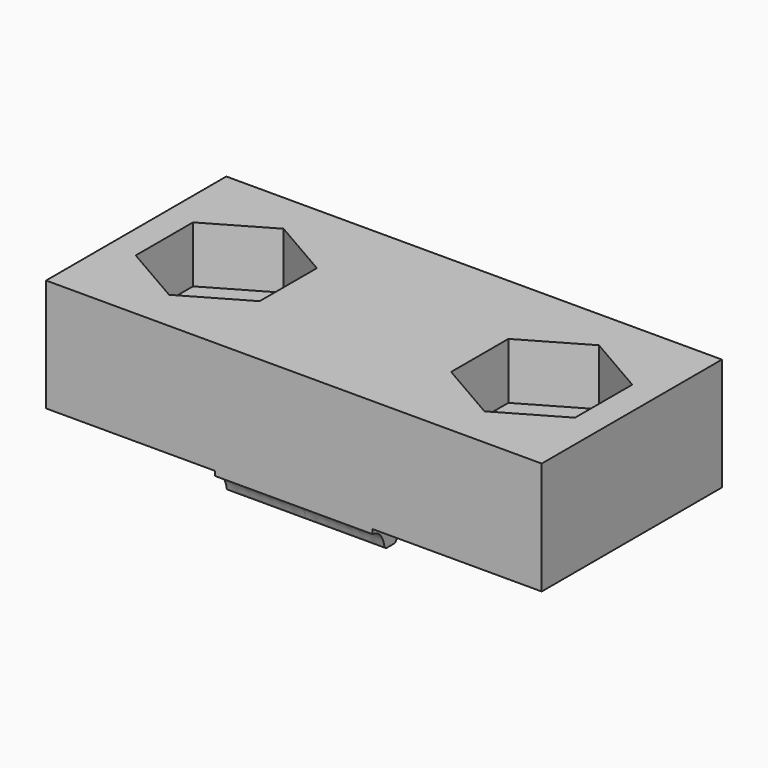
from build123d import *

# Parameters (mm, degrees)
SKETCH_W        = 22
SKETCH_H        = 10
PAD_DEPTH       = 5
PAD001_DEPTH    = 3.5
SKETCH009_R     = 1.6
POCKET_DEPTH    = 5.001
POCKET001_DEPTH = 2.5


with BuildPart() as part:
    # Sketch → Pad (new body)
    with BuildSketch(Plane.XY):
        Rectangle(SKETCH_W, SKETCH_H)
    extrude(amount=PAD_DEPTH)

    # Sketch008 (on DatumPlane) → Pad001 (join, symmetric)
    with BuildSketch(Plane(origin=(0, -5, -0.2), x_dir=(0, 1, 0), z_dir=(1, 0, 0))):
        with BuildLine():
            add(Edge.make_bspline(
                [(0, 0), (0.35359, -0.026741), (0.649381, -0.565336), (0.617792, -0.761919), (0.721021, -0.848783), (0.871627, -0.848783), (1.086099, -0.848783), (1.231939, -0.850694), (1.339653, -0.771577), (1.309148, -0.564354), (1.603926, -0.032231), (2, 0)],
                knots=[0, 0, 0, 0, 0.142857, 0.285714, 0.428571, 0.428571, 0.571429, 0.571429, 0.714286, 0.857143, 1, 1, 1, 1], degree=3))
            add(Edge.make_bspline(
                [(2, 0), (2.35359, -0.026741), (2.649381, -0.565336), (2.617792, -0.761919), (2.721021, -0.848783), (2.871627, -0.848783), (3.086099, -0.848783), (3.231939, -0.850694), (3.339653, -0.771577), (3.309148, -0.564354), (3.603926, -0.032231), (4, 0)],
                knots=[0, 0, 0, 0, 0.142857, 0.285714, 0.428571, 0.428571, 0.571429, 0.571429, 0.714286, 0.857143, 1, 1, 1, 1], degree=3))
            add(Edge.make_bspline(
                [(4, 0), (4.35359, -0.026741), (4.649381, -0.565336), (4.617792, -0.761919), (4.721021, -0.848783), (4.871627, -0.848783), (5.086099, -0.848783), (5.231939, -0.850694), (5.339653, -0.771577), (5.309148, -0.564354), (5.603926, -0.032231), (6, 0)],
                knots=[0, 0, 0, 0, 0.142857, 0.285714, 0.428571, 0.428571, 0.571429, 0.571429, 0.714286, 0.857143, 1, 1, 1, 1], degree=3))
            add(Edge.make_bspline(
                [(6, 0), (6.35359, -0.026741), (6.649381, -0.565336), (6.617792, -0.761919), (6.721021, -0.848783), (6.871627, -0.848783), (7.086099, -0.848783), (7.231939, -0.850694), (7.339653, -0.771577), (7.309148, -0.564354), (7.603926, -0.032231), (8, 0)],
                knots=[0, 0, 0, 0, 0.142857, 0.285714, 0.428571, 0.428571, 0.571429, 0.571429, 0.714286, 0.857143, 1, 1, 1, 1], degree=3))
            add(Edge.make_bspline(
                [(8, 0), (8.35359, -0.026741), (8.649381, -0.565336), (8.617792, -0.761919), (8.721021, -0.848783), (8.871627, -0.848783), (9.086099, -0.848783), (9.231939, -0.850694), (9.339653, -0.771577), (9.309148, -0.564354), (9.603926, -0.032231), (10, 0)],
                knots=[0, 0, 0, 0, 0.142857, 0.285714, 0.428571, 0.428571, 0.571429, 0.571429, 0.714286, 0.857143, 1, 1, 1, 1], degree=3))
            Line((10, 0), (10, 0.958783))
            Line((10, 0.958783), (0, 0.958783))
            Line((0, 0.958783), (0, 0))
        make_face()
    extrude(amount=PAD001_DEPTH, both=True)

    # Sketch009 → Pocket (cut, through all)
    with BuildSketch(Plane.XY):
        with Locations((-7, 0)):
            Circle(SKETCH009_R)
        with Locations((7, 0)):
            Circle(SKETCH009_R)
    extrude(amount=POCKET_DEPTH, mode=Mode.SUBTRACT)

    # Sketch010 (on DatumPlane) → Pocket001 (cut)
    with BuildSketch(Plane.XY.offset(5)):
        Polygon((-4.25, -1.587713), (-4.25, 1.587713), (-7, 3.175426), (-9.75, 1.587713), (-9.75, -1.587713), (-7, -3.175426), align=None)
        Polygon((4.25, -1.587713), (7, -3.175426), (9.75, -1.587713), (9.75, 1.587713), (7, 3.175426), (4.25, 1.587713), align=None)
    extrude(amount=-POCKET001_DEPTH, mode=Mode.SUBTRACT)


solid = part.part
